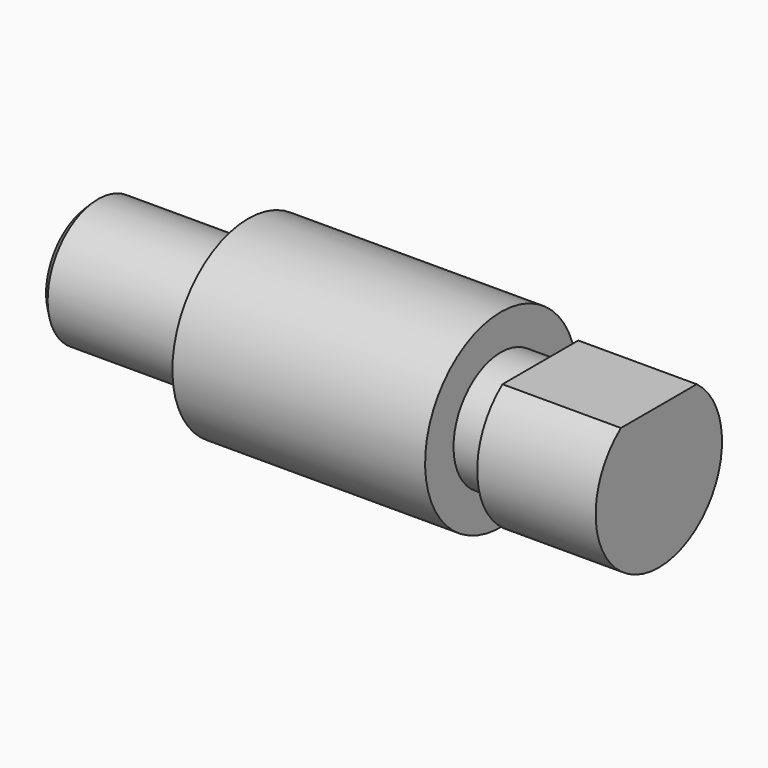
from build123d import *

# Parameters (mm, degrees)
F2_SIZE  = 1
F4_DEPTH = 15


with BuildPart() as f1:
    # F0 (on Front) → F1 (revolve)
    with BuildSketch(Plane.XZ):
        Polygon((0, 8), (0, 0), (72, 0), (72, 10), (57, 10), (57, 7.5), (52, 7.5), (52, 12), (20, 12), (20, 8), align=None)
    revolve(axis=Axis((33.058259, 0, 0), (1, 0, 0)))

    # F2
    f2_edges = [f1.edges().sort_by_distance(p)[0] for p in [
        (0, 0, -8),
    ]]
    chamfer(f2_edges, length=F2_SIZE)

    # F3 (on face) → F4 (cut)
    with BuildSketch(Plane.YZ.offset(72)):
        with BuildLine():
            Line((-6, 8), (6, 8))
            ThreePointArc((6, 8), (0, 10), (-6, 8))
        make_face()
    extrude(amount=-F4_DEPTH, mode=Mode.SUBTRACT)


solid = f1.part
